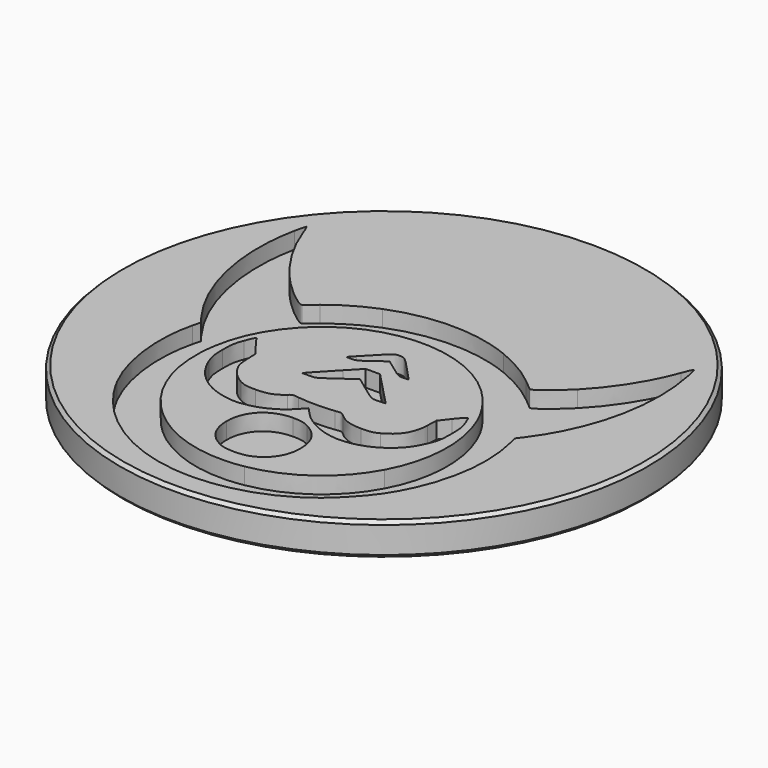
from build123d import *

# Parameters (mm, degrees)
POCKET_DEPTH = 1.25


with BuildPart() as part:
    # Sketch (on DatumPlane) → Revolution (revolve)
    with BuildSketch(Plane.YZ):
        Polygon((0, 0), (0, -2.5), (19.75, -2.5), (20, -2.25), (20, -0.25), (19.75, 0), align=None)
    revolve(axis=Axis((0, 0, 0), (0, 0, 1)))

    # Sketch005 → Pocket (cut)
    with BuildSketch(Plane.XY):
        with BuildLine():
            add(Edge.make_bspline(
                [(-1.465748, -18.17092), (-5.521519, -17.710216), (-9.132129, -15.18034), (-11.037245, -11.464384)],
                knots=[0, 0, 0, 0, 1, 1, 1, 1], degree=3))
            add(Edge.make_bspline(
                [(-11.037245, -11.464384), (-12.29782, -9.005614), (-12.687325, -5.714871), (-12.028312, -3.091331)],
                knots=[0, 0, 0, 0, 1, 1, 1, 1], degree=3))
            add(Edge.make_bspline(
                [(-12.028312, -3.091331), (-11.878456, -2.494749)],
                knots=[0, 0, 0.484342, 0.484342], degree=1))
            add(Edge.make_bspline(
                [(-11.878456, -2.494749), (-12.318031, -1.897629)],
                knots=[0, 0, 0.583836, 0.583836], degree=1))
            add(Edge.make_bspline(
                [(-12.318031, -1.897629), (-14.788028, 1.457624), (-15.75326, 5.98482), (-14.889847, 10.16487)],
                knots=[0, 0, 0, 0, 1, 1, 1, 1], degree=3))
            add(Edge.make_bspline(
                [(-14.889847, 10.16487), (-14.805178, 10.57478), (-14.71211, 10.948659), (-14.683028, 10.995714)],
                knots=[0, 0, 0, 0, 1, 1, 1, 1], degree=3))
            add(Edge.make_bspline(
                [(-14.683028, 10.995714), (-14.653947, 11.042769), (-14.492926, 10.696927), (-14.325203, 10.227178)],
                knots=[0, 0, 0, 0, 1, 1, 1, 1], degree=3))
            add(Edge.make_bspline(
                [(-14.325203, 10.227178), (-13.630903, 8.282618), (-12.348708, 6.249225), (-10.864365, 4.738746)],
                knots=[0, 0, 0, 0, 1, 1, 1, 1], degree=3))
            add(Edge.make_bspline(
                [(-10.864365, 4.738746), (-9.886182, 3.743339), (-8.777454, 2.891903), (-8.614569, 3.011039)],
                knots=[0, 0, 0, 0, 1, 1, 1, 1], degree=3))
            add(Edge.make_bspline(
                [(-8.614569, 3.011039), (-8.546751, 3.060646), (-8.174961, 3.367522), (-7.788378, 3.692989)],
                knots=[0, 0, 0, 0, 1, 1, 1, 1], degree=3))
            add(Edge.make_bspline(
                [(-7.788378, 3.692989), (-6.948728, 4.399894), (-5.745103, 5.104129), (-4.579548, 5.57046)],
                knots=[0, 0, 0, 0, 1, 1, 1, 1], degree=3))
            add(Edge.make_bspline(
                [(-4.579548, 5.57046), (-1.63409, 6.748916), (1.655345, 6.748916), (4.600801, 5.57046)],
                knots=[0, 0, 0, 0, 1, 1, 1, 1], degree=3))
            add(Edge.make_bspline(
                [(4.600801, 5.57046), (5.766358, 5.104129), (6.969982, 4.399894), (7.809631, 3.692989)],
                knots=[0, 0, 0, 0, 1, 1, 1, 1], degree=3))
            add(Edge.make_bspline(
                [(7.809631, 3.692989), (8.196216, 3.367522), (8.568, 3.060646), (8.635822, 3.011039)],
                knots=[0, 0, 0, 0, 1, 1, 1, 1], degree=3))
            add(Edge.make_bspline(
                [(8.635822, 3.011039), (8.798706, 2.891901), (9.907436, 3.743339), (10.88562, 4.738746)],
                knots=[0, 0, 0, 0, 1, 1, 1, 1], degree=3))
            add(Edge.make_bspline(
                [(10.88562, 4.738746), (12.369961, 6.249225), (13.652157, 8.282618), (14.346457, 10.227178)],
                knots=[0, 0, 0, 0, 1, 1, 1, 1], degree=3))
            add(Edge.make_bspline(
                [(14.346457, 10.227178), (14.51418, 10.696927), (14.675202, 11.042768), (14.704282, 10.995714)],
                knots=[0, 0, 0, 0, 1, 1, 1, 1], degree=3))
            add(Edge.make_bspline(
                [(14.704282, 10.995714), (14.733365, 10.948659), (14.826431, 10.57478), (14.911102, 10.16487)],
                knots=[0, 0, 0, 0, 1, 1, 1, 1], degree=3))
            add(Edge.make_bspline(
                [(14.911102, 10.16487), (15.774514, 5.98482), (14.809286, 1.457624), (12.339285, -1.897629)],
                knots=[0, 0, 0, 0, 1, 1, 1, 1], degree=3))
            add(Edge.make_bspline(
                [(12.339285, -1.897629), (11.89971, -2.494749)],
                knots=[0, 0, 0.583836, 0.583836], degree=1))
            add(Edge.make_bspline(
                [(11.89971, -2.494749), (12.049567, -3.091331)],
                knots=[0, 0, 0.484342, 0.484342], degree=1))
            add(Edge.make_bspline(
                [(12.049567, -3.091331), (12.850355, -6.279287), (12.166001, -9.971072), (10.236125, -12.874018)],
                knots=[0, 0, 0, 0, 1, 1, 1, 1], degree=3))
            add(Edge.make_bspline(
                [(10.236125, -12.874018), (9.709813, -13.665705), (8.498641, -14.962591), (7.669221, -15.622579)],
                knots=[0, 0, 0, 0, 1, 1, 1, 1], degree=3))
            add(Edge.make_bspline(
                [(7.669221, -15.622579), (5.182996, -17.60093), (1.807095, -18.542689), (-1.465748, -18.17092)],
                knots=[0, 0, 0, 0, 1, 1, 1, 1], degree=3))
        make_face()
        with BuildLine():
            add(Edge.make_bspline(
                [(1.667101, -15.281169), (4.546148, -14.779105), (7.012372, -13.005823), (8.394024, -10.444331)],
                knots=[0, 0, 0, 0, 1, 1, 1, 1], degree=3))
            add(Edge.make_bspline(
                [(8.394024, -10.444331), (10.054082, -7.366692), (9.88092, -3.5446), (7.949824, -0.639817)],
                knots=[0, 0, 0, 0, 1, 1, 1, 1], degree=3))
            add(Edge.make_bspline(
                [(7.949824, -0.639817), (6.478936, 1.572715), (4.259487, 3.029307), (1.671384, 3.480635)],
                knots=[0, 0, 0, 0, 1, 1, 1, 1], degree=3))
            add(Edge.make_bspline(
                [(1.671384, 3.480635), (-1.514123, 4.03614), (-4.730269, 2.974585), (-6.904958, 0.649836)],
                knots=[0, 0, 0, 0, 1, 1, 1, 1], degree=3))
            add(Edge.make_bspline(
                [(-6.904958, 0.649836), (-8.528063, -1.085267), (-9.38275, -3.142737), (-9.487277, -5.566519)],
                knots=[0, 0, 0, 0, 1, 1, 1, 1], degree=3))
            add(Edge.make_bspline(
                [(-9.487277, -5.566519), (-9.748177, -11.616249), (-4.337759, -16.32833), (1.667101, -15.281169)],
                knots=[0, 0, 0, 0, 1, 1, 1, 1], degree=3))
        make_face(mode=Mode.SUBTRACT)
        with BuildLine():
            add(Edge.make_bspline(
                [(-1.223781, -13.971426), (-2.233041, -13.482638), (-2.787709, -12.582321), (-2.793294, -11.423844)],
                knots=[0, 0, 0, 0, 1, 1, 1, 1], degree=3))
            add(Edge.make_bspline(
                [(-2.793294, -11.423844), (-2.801295, -9.771413), (-1.65792, -8.628521), (0.011177, -8.620473)],
                knots=[0, 0, 0, 0, 1, 1, 1, 1], degree=3))
            add(Edge.make_bspline(
                [(0.011177, -8.620473), (0.603866, -8.617552), (0.818535, -8.662243), (1.266725, -8.881527)],
                knots=[0, 0, 0, 0, 1, 1, 1, 1], degree=3))
            add(Edge.make_bspline(
                [(1.266725, -8.881527), (2.286704, -9.380557), (2.811102, -10.243995), (2.811102, -11.424394)],
                knots=[0, 0, 0, 0, 1, 1, 1, 1], degree=3))
            add(Edge.make_bspline(
                [(2.811102, -11.424394), (2.811102, -12.591763), (2.249752, -13.49329), (1.222084, -13.97635)],
                knots=[0, 0, 0, 0, 1, 1, 1, 1], degree=3))
            add(Edge.make_bspline(
                [(1.222084, -13.97635), (0.598392, -14.26952), (-0.613305, -14.267079), (-1.223781, -13.971397)],
                knots=[0, 0, 0, 0, 1, 1, 1, 1], degree=3))
            add(Edge.make_bspline(
                [(-1.223781, -13.971397), (-1.223781, -13.971426)],
                knots=[0, 0, 2.3e-05, 2.3e-05], degree=1))
        make_face()
        with BuildLine():
            add(Edge.make_bspline(
                [(-4.998483, -8.997056), (-6.59433, -8.649829), (-7.833775, -7.577279), (-8.438855, -6.019943)],
                knots=[0, 0, 0, 0, 1, 1, 1, 1], degree=3))
            add(Edge.make_bspline(
                [(-8.438855, -6.019943), (-8.646126, -5.486475), (-8.690389, -5.212632), (-8.696895, -4.423519)],
                knots=[0, 0, 0, 0, 1, 1, 1, 1], degree=3))
            add(Edge.make_bspline(
                [(-8.696895, -4.423519), (-8.703626, -3.600447), (-8.667838, -3.370712), (-8.433148, -2.732831)],
                knots=[0, 0, 0, 0, 1, 1, 1, 1], degree=3))
            add(Edge.make_bspline(
                [(-8.433148, -2.732831), (-8.168756, -2.014236), (-8.05925, -1.869537), (-7.964603, -2.113706)],
                knots=[0, 0, 0, 0, 1, 1, 1, 1], degree=3))
            add(Edge.make_bspline(
                [(-7.964603, -2.113706), (-7.939216, -2.179188), (-7.675404, -2.54302), (-7.378344, -2.922216)],
                knots=[0, 0, 0, 0, 1, 1, 1, 1], degree=3))
            add(Edge.make_bspline(
                [(-7.378344, -2.922216), (-6.838238, -3.611664)],
                knots=[0, 0, 0.689619, 0.689619], degree=1))
            add(Edge.make_bspline(
                [(-6.838238, -3.611664), (-6.815035, -4.398591)],
                knots=[0, 0, 0.619897, 0.619897], degree=1))
            add(Edge.make_bspline(
                [(-6.815035, -4.398591), (-6.797229, -5.002273), (-6.74046, -5.285329), (-6.57121, -5.614144)],
                knots=[0, 0, 0, 0, 1, 1, 1, 1], degree=3))
            add(Edge.make_bspline(
                [(-6.57121, -5.614144), (-6.27084, -6.197694), (-5.844121, -6.630628), (-5.275745, -6.928473)],
                knots=[0, 0, 0, 0, 1, 1, 1, 1], degree=3))
            add(Edge.make_bspline(
                [(-5.275745, -6.928473), (-4.870685, -7.140738), (-4.678472, -7.178073), (-3.989869, -7.178234)],
                knots=[0, 0, 0, 0, 1, 1, 1, 1], degree=3))
            add(Edge.make_bspline(
                [(-3.989869, -7.178234), (-3.126702, -7.178424), (-2.60975, -6.99921), (-2.084869, -6.517768)],
                knots=[0, 0, 0, 0, 1, 1, 1, 1], degree=3))
            add(Edge.make_bspline(
                [(-2.084869, -6.517768), (-1.872033, -6.322546), (-1.796163, -6.307883), (-1.370494, -6.379693)],
                knots=[0, 0, 0, 0, 1, 1, 1, 1], degree=3))
            add(Edge.make_bspline(
                [(-1.370494, -6.379693), (-1.108556, -6.423877), (-0.48705, -6.460034), (0.010631, -6.460034)],
                knots=[0, 0, 0, 0, 1, 1, 1, 1], degree=3))
            add(Edge.make_bspline(
                [(0.010631, -6.460034), (0.508313, -6.460034), (1.129819, -6.423877), (1.391756, -6.379693)],
                knots=[0, 0, 0, 0, 1, 1, 1, 1], degree=3))
            add(Edge.make_bspline(
                [(1.391756, -6.379693), (1.817426, -6.307888), (1.893296, -6.322543), (2.106131, -6.517768)],
                knots=[0, 0, 0, 0, 1, 1, 1, 1], degree=3))
            add(Edge.make_bspline(
                [(2.106131, -6.517768), (2.631012, -6.99921), (3.147964, -7.178437), (4.011131, -7.178234)],
                knots=[0, 0, 0, 0, 1, 1, 1, 1], degree=3))
            add(Edge.make_bspline(
                [(4.011131, -7.178234), (4.699733, -7.178045), (4.891946, -7.140743), (5.297006, -6.928473)],
                knots=[0, 0, 0, 0, 1, 1, 1, 1], degree=3))
            add(Edge.make_bspline(
                [(5.297006, -6.928473), (6.308208, -6.398572), (6.801194, -5.589021), (6.836244, -4.400833)],
                knots=[0, 0, 0, 0, 1, 1, 1, 1], degree=3))
            add(Edge.make_bspline(
                [(6.836244, -4.400833), (6.859396, -3.616144)],
                knots=[0, 0, 0.618134, 0.618134], degree=1))
            add(Edge.make_bspline(
                [(6.859396, -3.616144), (7.452516, -2.850968)],
                knots=[0, 0, 0.762312, 0.762312], degree=1))
            add(Edge.make_bspline(
                [(7.452516, -2.850968), (7.778731, -2.43012), (8.075555, -2.118861), (8.112124, -2.15928)],
                knots=[0, 0, 0, 0, 1, 1, 1, 1], degree=3))
            add(Edge.make_bspline(
                [(8.112124, -2.15928), (8.148687, -2.199704), (8.277159, -2.489944), (8.397606, -2.804269)],
                knots=[0, 0, 0, 0, 1, 1, 1, 1], degree=3))
            add(Edge.make_bspline(
                [(8.397606, -2.804269), (8.575808, -3.26932), (8.61665, -3.562056), (8.616873, -4.375894)],
                knots=[0, 0, 0, 0, 1, 1, 1, 1], degree=3))
            add(Edge.make_bspline(
                [(8.616873, -4.375894), (8.617063, -5.230757), (8.580652, -5.469544), (8.365914, -6.019943)],
                knots=[0, 0, 0, 0, 1, 1, 1, 1], degree=3))
            add(Edge.make_bspline(
                [(8.365914, -6.019943), (8.227737, -6.3741), (7.98898, -6.84657), (7.835343, -7.069874)],
                knots=[0, 0, 0, 0, 1, 1, 1, 1], degree=3))
            add(Edge.make_bspline(
                [(7.835343, -7.069874), (6.836113, -8.522201), (4.905106, -9.339837), (3.168401, -9.045968)],
                knots=[0, 0, 0, 0, 1, 1, 1, 1], degree=3))
            add(Edge.make_bspline(
                [(3.168401, -9.045968), (2.162846, -8.875819), (1.11313, -8.325744), (0.471546, -7.632757)],
                knots=[0, 0, 0, 0, 1, 1, 1, 1], degree=3))
            add(Edge.make_bspline(
                [(0.471546, -7.632757), (-0.037874, -7.082522)],
                knots=[0, 0, 0.590429, 0.590429], degree=1))
            add(Edge.make_bspline(
                [(-0.037874, -7.082522), (-0.53538, -7.621298)],
                knots=[0, 0, 0.577435, 0.577435], degree=1))
            add(Edge.make_bspline(
                [(-0.53538, -7.621298), (-1.13334, -8.268862), (-2.096973, -8.804609), (-3.012862, -8.998694)],
                knots=[0, 0, 0, 0, 1, 1, 1, 1], degree=3))
            add(Edge.make_bspline(
                [(-3.012862, -8.998694), (-3.791166, -9.163625), (-4.234609, -9.163259), (-4.998476, -8.997043)],
                knots=[0, 0, 0, 0, 1, 1, 1, 1], degree=3))
            add(Edge.make_bspline(
                [(-4.998476, -8.997043), (-4.998483, -8.997056)],
                knots=[0, 0, 1.1e-05, 1.1e-05], degree=1))
        make_face()
        with BuildLine():
            add(Edge.make_bspline(
                [(-2.795267, -3.399581), (-2.597529, -3.176935), (-2.011287, -2.555428), (-1.492508, -2.018456)],
                knots=[0, 0, 0, 0, 1, 1, 1, 1], degree=3))
            add(Edge.make_bspline(
                [(-1.492508, -2.018456), (-0.549274, -1.042143)],
                knots=[0, 0, 1.068918, 1.068918], degree=1))
            add(Edge.make_bspline(
                [(-0.549274, -1.042143), (-0.007386, -1.03846)],
                knots=[0, 0, 0.426693, 0.426693], degree=1))
            add(Edge.make_bspline(
                [(-0.007386, -1.03846), (0.534502, -1.034777)],
                knots=[0, 0, 0.426694, 0.426694], degree=1))
            add(Edge.make_bspline(
                [(0.534502, -1.034777), (1.836289, -2.395724)],
                knots=[0, 0, 1.482915, 1.482915], degree=1))
            add(Edge.make_bspline(
                [(1.836289, -2.395724), (3.138075, -3.756671)],
                knots=[0, 0, 1.482914, 1.482914], degree=1))
            add(Edge.make_bspline(
                [(3.138075, -3.756671), (2.618029, -3.78536)],
                knots=[0, 0, 0.410108, 0.410108], degree=1))
            add(Edge.make_bspline(
                [(2.618029, -3.78536), (2.101265, -3.813872), (2.091371, -3.80916), (1.049642, -3.040094)],
                knots=[0, 0, 0, 0, 1, 1, 1, 1], degree=3))
            add(Edge.make_bspline(
                [(1.049642, -3.040094), (0.001298, -2.266141)],
                knots=[0, 0, 1.026051, 1.026051], degree=1))
            add(Edge.make_bspline(
                [(0.001298, -2.266141), (-1.044787, -3.035218)],
                knots=[0, 0, 1.022342, 1.022342], degree=1))
            add(Edge.make_bspline(
                [(-1.044787, -3.035218), (-2.058478, -3.780576), (-2.107346, -3.804394), (-2.622832, -3.804394)],
                knots=[0, 0, 0, 0, 1, 1, 1, 1], degree=3))
            add(Edge.make_bspline(
                [(-2.622832, -3.804394), (-3.15479, -3.804394)],
                knots=[0, 0, 0.418864, 0.418864], degree=1))
            add(Edge.make_bspline(
                [(-3.15479, -3.804394), (-2.795267, -3.399581)],
                knots=[0, 0, 0.426311, 0.426311], degree=1))
        make_face()
        with BuildLine():
            add(Edge.make_bspline(
                [(-1.986484, -0.113456), (-0.438573, 1.539047), (-0.449849, 1.529606), (-0.024232, 1.529606)],
                knots=[0, 0, 0, 0, 1, 1, 1, 1], degree=3))
            add(Edge.make_bspline(
                [(-0.024232, 1.529606), (0.360505, 1.529606), (0.409882, 1.492331), (1.332268, 0.505668)],
                knots=[0, 0, 0, 0, 1, 1, 1, 1], degree=3))
            add(Edge.make_bspline(
                [(1.332268, 0.505668), (2.2895, -0.518268)],
                knots=[0, 0, 1.103694, 1.103694], degree=1))
            add(Edge.make_bspline(
                [(2.2895, -0.518268), (1.913541, -0.547491)],
                knots=[0, 0, 0.296924, 0.296924], degree=1))
            add(Edge.make_bspline(
                [(1.913541, -0.547491), (1.580199, -0.573399), (1.45167, -0.511309), (0.779727, 0.000196)],
                knots=[0, 0, 0, 0, 1, 1, 1, 1], degree=3))
            add(Edge.make_bspline(
                [(0.779727, 0.000196), (0.362908, 0.3175), (-0.004618, 0.577106), (-0.036998, 0.577106)],
                knots=[0, 0, 0, 0, 1, 1, 1, 1], degree=3))
            add(Edge.make_bspline(
                [(-0.036998, 0.577106), (-0.069383, 0.577106), (-0.433707, 0.319932), (-0.846623, 0.005607)],
                knots=[0, 0, 0, 0, 1, 1, 1, 1], degree=3))
            add(Edge.make_bspline(
                [(-0.846623, 0.005607), (-1.492843, -0.48632), (-1.65397, -0.565893), (-2.003831, -0.565893)],
                knots=[0, 0, 0, 0, 1, 1, 1, 1], degree=3))
            add(Edge.make_bspline(
                [(-2.003831, -0.565893), (-2.410286, -0.565893)],
                knots=[0, 0, 0.320043, 0.320043], degree=1))
            add(Edge.make_bspline(
                [(-2.410286, -0.565893), (-1.986484, -0.113456)],
                knots=[0, 0, 0.48813, 0.48813], degree=1))
        make_face()
    extrude(amount=-POCKET_DEPTH, mode=Mode.SUBTRACT)


solid = part.part
